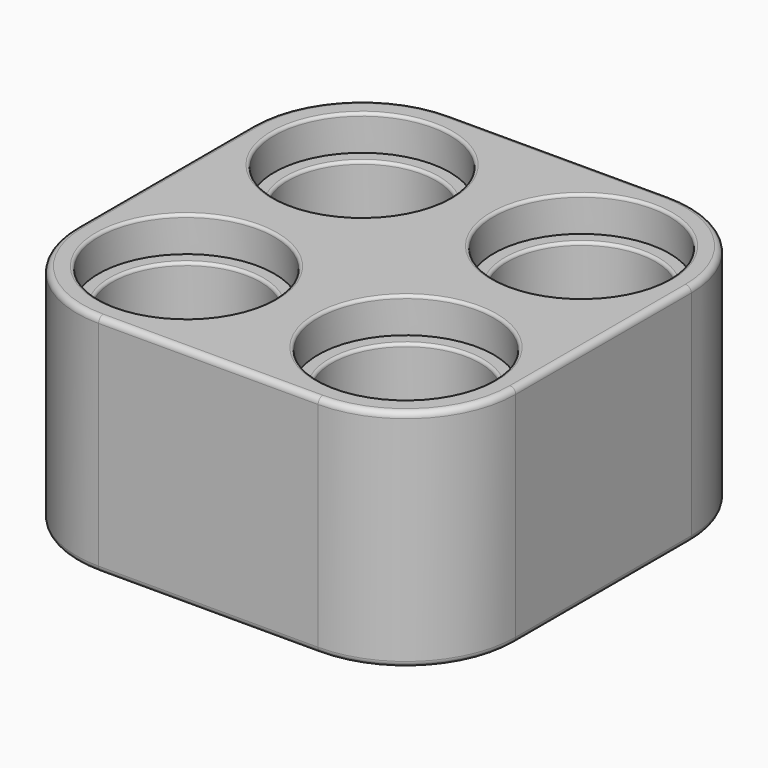
from build123d import *

# Parameters (mm, degrees)
F0_R     = 2.525
F1_DEPTH = 3.85
F2_R     = 0.2
F3_R     = 3
F4_DEPTH = 1.2
F5_R     = 0.1


with BuildPart() as f1:
    # F0 (on Top) → F1 (new body)
    with BuildSketch(Plane.XY):
        with BuildLine():
            Line((-3.75, -7.5), (3.75, -7.5))
            ThreePointArc((3.75, -7.5), (6.40165, -6.40165), (7.5, -3.75))
            Line((7.5, -3.75), (7.5, 3.75))
            ThreePointArc((7.5, 3.75), (6.40165, 6.40165), (3.75, 7.5))
            Line((3.75, 7.5), (-3.75, 7.5))
            ThreePointArc((-3.75, 7.5), (-6.40165, 6.40165), (-7.5, 3.75))
            Line((-7.5, 3.75), (-7.5, -3.75))
            ThreePointArc((-7.5, -3.75), (-6.40165, -6.40165), (-3.75, -7.5))
        make_face()
        with Locations((-3.75, -3.75)):
            Circle(F0_R, mode=Mode.SUBTRACT)
        with Locations((3.75, -3.75)):
            Circle(F0_R, mode=Mode.SUBTRACT)
        with Locations((-3.75, 3.75)):
            Circle(F0_R, mode=Mode.SUBTRACT)
        with Locations((3.75, 3.75)):
            Circle(F0_R, mode=Mode.SUBTRACT)
    extrude(amount=F1_DEPTH)

    # F2
    f2_edges = [f1.edges().sort_by_distance(p)[0] for p in [
        (0, -7.5, 3.85),
        (6.40165, -6.40165, 3.85),
        (7.5, 0, 3.85),
        (6.40165, 6.40165, 3.85),
        (0, 7.5, 3.85),
        (-6.40165, 6.40165, 3.85),
        (-7.5, 0, 3.85),
        (-6.40165, -6.40165, 3.85),
        (-6.275, -3.75, 3.85),
        (1.225, -3.75, 3.85),
        (-6.275, 3.75, 3.85),
        (1.225, 3.75, 3.85),
    ]]
    fillet(f2_edges, radius=F2_R)

    # F3 (on face) → F4 (cut)
    with BuildSketch(Plane.XY.offset(3.85)):
        with Locations((-3.75, 3.75)):
            Circle(F3_R)
        with Locations((3.75, 3.75)):
            Circle(F3_R)
        with Locations((3.75, -3.75)):
            Circle(F3_R)
        with Locations((-3.75, -3.75)):
            Circle(F3_R)
    extrude(amount=-F4_DEPTH, mode=Mode.SUBTRACT)

    # F5
    f5_edges = [f1.edges().sort_by_distance(p)[0] for p in [
        (-6.75, -3.75, 3.85),
        (-6.275, -3.75, 2.65),
        (-6.75, 3.75, 3.85),
        (-6.275, 3.75, 2.65),
        (0.75, 3.75, 3.85),
        (1.225, 3.75, 2.65),
        (1.225, -3.75, 2.65),
        (0.75, -3.75, 3.85),
    ]]
    fillet(f5_edges, radius=F5_R)

    # F6: F1 across plane


with BuildPart() as f1_1:
    add(f1.part)
    add(f1.part.mirror(Plane.XY))


solid = f1_1.part
